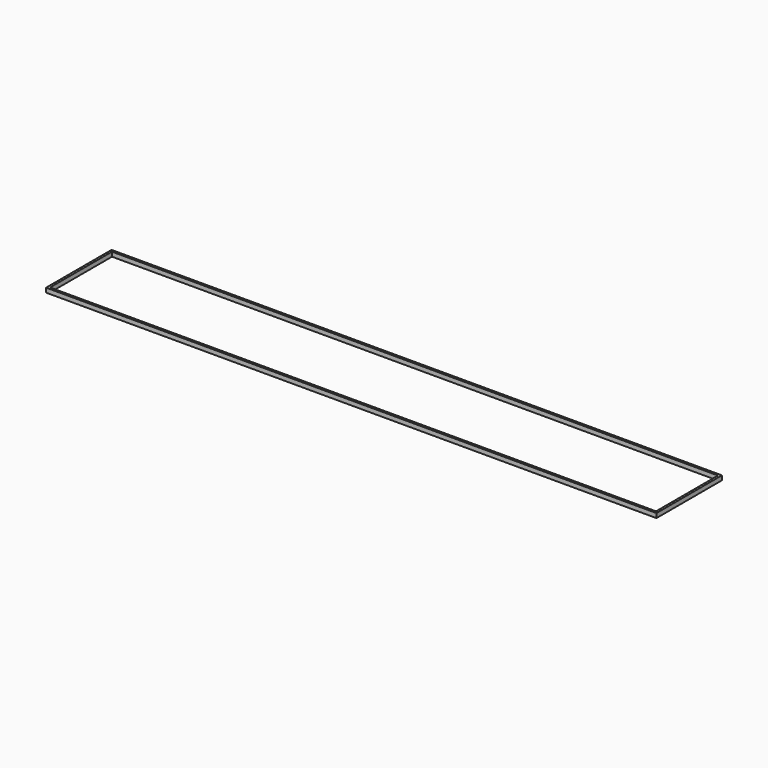
from build123d import *

# Parameters (mm, degrees)
SKETCH_W   = 1380
SKETCH_H   = 185
SKETCH_W_2 = 1370
SKETCH_H_2 = 175
PAD_DEPTH  = 10


with BuildPart() as part:
    # Sketch → Pad (new body)
    with BuildSketch(Plane.XY):
        with Locations((685, 87.5)):
            Rectangle(SKETCH_W, SKETCH_H)
        with Locations((685, 87.5)):
            Rectangle(SKETCH_W_2, SKETCH_H_2, mode=Mode.SUBTRACT)
    extrude(amount=PAD_DEPTH)


solid = part.part
